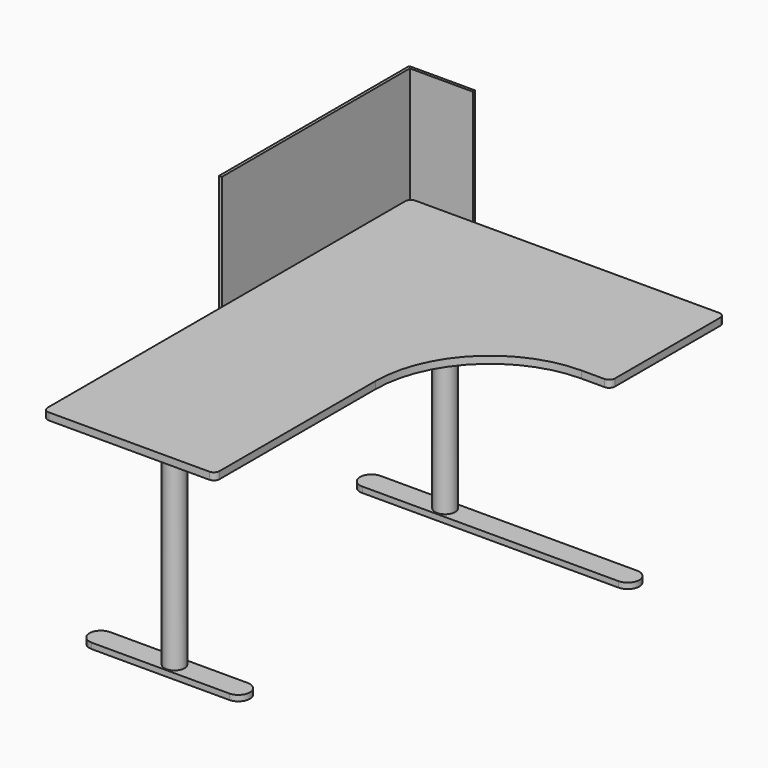
from build123d import *

# Parameters (mm, degrees)
F1_DEPTH      = 2.5
F2_R          = 3.5
F3_DEPTH      = 75
F5_DEPTH      = 2
F7_DEPTH      = 40
F7_DEPTH_BACK = 15
F8_R          = 0.8


with BuildPart() as f1:
    # F0 (on Top) → F1 (new body)
    with BuildSketch(Plane.XY):
        with BuildLine():
            ThreePointArc((0, -2), (-0.585786, -0.585786), (-2, 0))
            Line((-2, 0), (-108, 0))
            ThreePointArc((-108, 0), (-109.414214, -0.585786), (-110, -2))
            Line((-110, -2), (-110, -158))
            ThreePointArc((-110, -158), (-109.414214, -159.414214), (-108, -160))
            Line((-108, -160), (-52, -160))
            ThreePointArc((-52, -160), (-50.585786, -159.414214), (-50, -158))
            Line((-50, -158), (-50, -90))
            ThreePointArc((-50, -90), (-38.284271, -61.715729), (-10, -50))
            Line((-10, -50), (-2, -50))
            ThreePointArc((-2, -50), (-0.585786, -49.414214), (0, -48))
            Line((0, -48), (0, -2))
        make_face()
    extrude(amount=F1_DEPTH)

    # F2 (on face) → F3 (join)
    with BuildSketch(Plane(origin=(0, 0, 0), x_dir=(1, 0, 0), z_dir=(0, 0, -1))):
        with Locations((-78.837842, 141.606882)):
            Circle(F2_R)
        with Locations((-78.837842, 23.552824)):
            Circle(F2_R)
    extrude(amount=F3_DEPTH)

    # F4 (on face) → F5 (join)
    with BuildSketch(Plane(origin=(0, 0, -75), x_dir=(1, 0, 0), z_dir=(0, 0, -1))):
        with BuildLine():
            ThreePointArc((-56.533181, 137.606882), (-52.533181, 141.606882), (-56.533181, 145.606882))
            Line((-56.533181, 145.606882), (-104.533181, 145.606882))
            ThreePointArc((-104.533181, 145.606882), (-108.533181, 141.606882), (-104.533181, 137.606882))
            Line((-104.533181, 137.606882), (-56.533181, 137.606882))
        make_face()
        with BuildLine():
            ThreePointArc((-82.337842, 141.606882), (-78.837842, 145.106882), (-75.337842, 141.606882))
            ThreePointArc((-75.337842, 141.606882), (-78.837842, 138.106882), (-82.337842, 141.606882))
        make_face(mode=Mode.SUBTRACT)
        with BuildLine():
            ThreePointArc((-104.533181, 27.552824), (-108.533181, 23.552824), (-104.533181, 19.552824))
            Line((-104.533181, 19.552824), (-15.066023, 19.552824))
            ThreePointArc((-15.066023, 19.552824), (-11.066023, 23.552824), (-15.066023, 27.552824))
            Line((-15.066023, 27.552824), (-104.533181, 27.552824))
        make_face()
        with BuildLine():
            ThreePointArc((-82.337842, 23.552824), (-78.837842, 27.052824), (-75.337842, 23.552824))
            ThreePointArc((-75.337842, 23.552824), (-78.837842, 20.052824), (-82.337842, 23.552824))
        make_face(mode=Mode.SUBTRACT)
        with BuildLine():
            ThreePointArc((-82.337842, 23.552824), (-78.837842, 20.052824), (-75.337842, 23.552824))
            Line((-75.337842, 23.552824), (-82.337842, 23.552824))
        make_face()
    extrude(amount=-F5_DEPTH)

    # F6 (on face) → F7 (join, two sides)
    with BuildSketch(Plane.XY.offset(2.5)) as f7_sk:
        Polygon((-108, 0), (-88, 0), (-88, 1), (-111, 1), (-111, -82), (-110, -82), (-110, -2), (-110, 0), align=None)
    extrude(amount=F7_DEPTH)
    extrude(f7_sk.sketch, amount=-F7_DEPTH_BACK)

    # F8
    f8_edges = [f1.edges().sort_by_distance(p)[0] for p in [
        (-111, 1, 15),
    ]]
    fillet(f8_edges, radius=F8_R)


solid = f1.part
